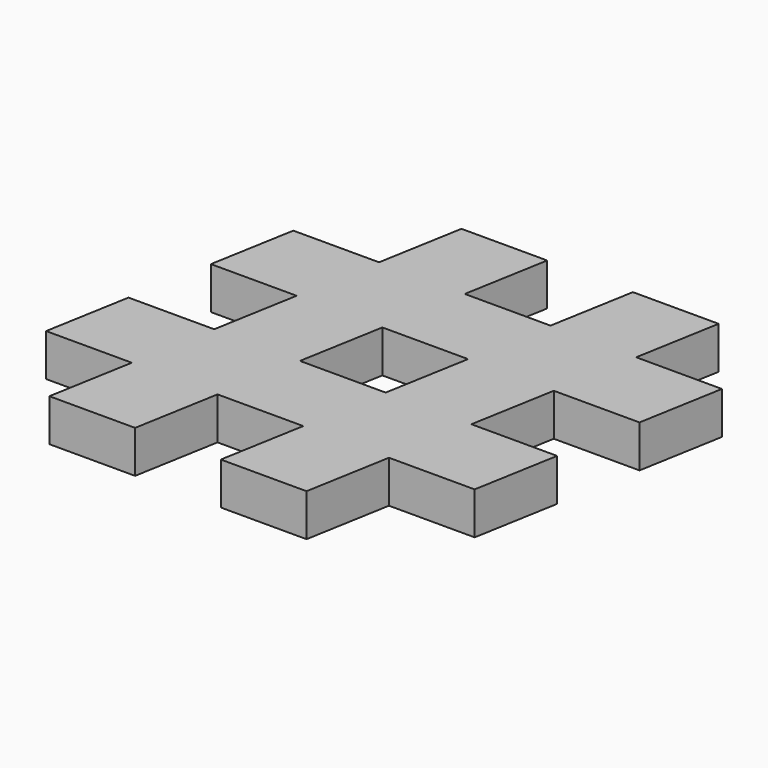
from build123d import *

# Parameters (mm, degrees)
PAD_DEPTH = 3.175


with BuildPart() as part:
    # Sketch → Pad (new body)
    with BuildSketch(Plane.XY):
        Polygon((-14.424634, 9.514612), (-15.54309, 3.171537), (-9.102163, 3.171537), (-10.220618, -3.171537), (-16.661545, -3.171537), (-17.78, -9.514612), (-11.339073, -9.514612), (-12.457528, -15.857687), (-6.016601, -15.857687), (-4.898146, -9.514612), (1.542781, -9.514612), (0.424325, -15.857687), (6.865252, -15.857687), (7.983707, -9.514612), (14.424634, -9.514612), (15.54309, -3.171537), (9.102163, -3.171537), (10.220618, 3.171537), (16.661545, 3.171537), (17.78, 9.514612), (11.339073, 9.514612), (12.457528, 15.857687), (6.016601, 15.857687), (4.898146, 9.514612), (-1.542781, 9.514612), (-0.424325, 15.857687), (-6.865252, 15.857687), (-7.983707, 9.514612), align=None)
        Polygon((-2.661236, 3.171537), (-3.779691, -3.171537), (2.661236, -3.171537), (3.779691, 3.171537), align=None, mode=Mode.SUBTRACT)
    extrude(amount=PAD_DEPTH)


solid = part.part
